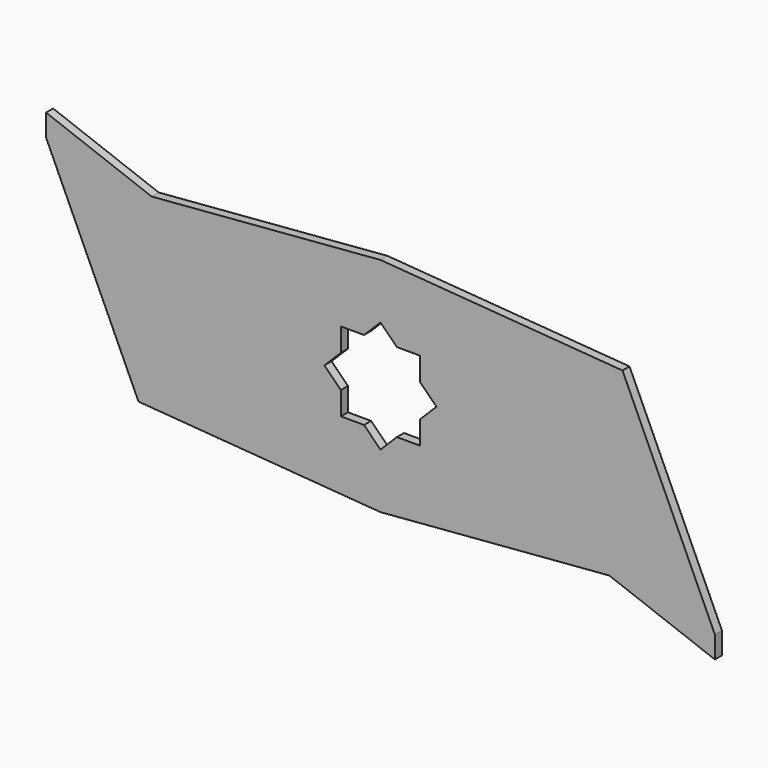
from build123d import *

# Parameters (mm, degrees)
F1_DEPTH = 1


with BuildPart() as f1:
    # F0 (on Front) → F1 (new body, symmetric)
    with BuildSketch(Plane.XZ):
        Polygon((55, 21), (0, 25.227922), (-52, 21), (-76, 30), (-76, 25), (-55, -21), (0, -25.227922), (52, -21), (76, -30), (76, -25), align=None)
        Polygon((3.727922, 9), (9, 9), (9, 3.727922), (12.727922, 0), (9, -3.727922), (9, -9), (3.727922, -9), (0, -12.727922), (-3.727922, -9), (-9, -9), (-9, -3.727922), (-12.727922, 0), (-9, 3.727922), (-9, 9), (-3.727922, 9), (0, 12.727922), align=None, mode=Mode.SUBTRACT)
    extrude(amount=F1_DEPTH, both=True)


solid = f1.part
